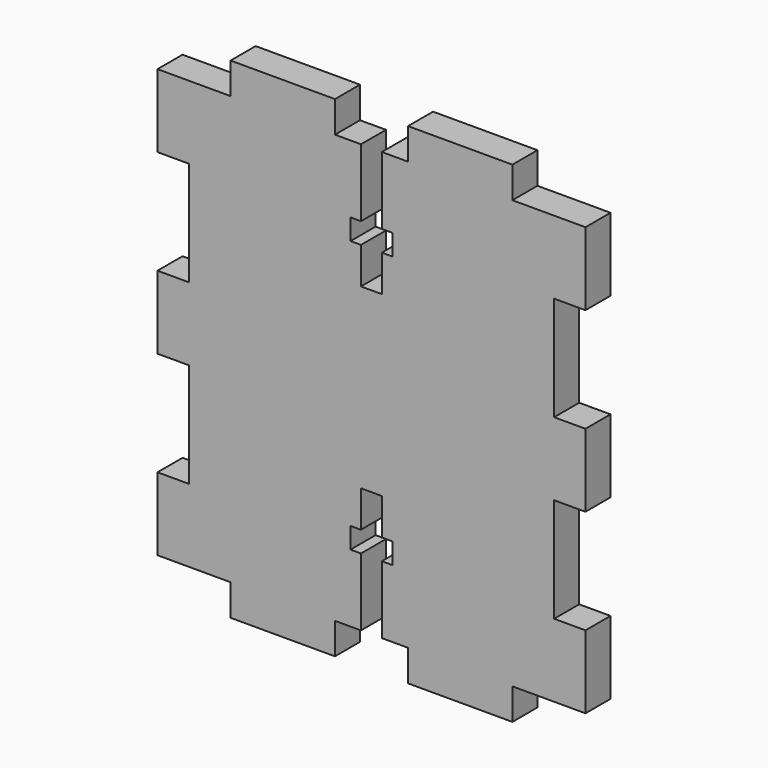
from build123d import *

# Parameters (mm, degrees)
F1_DEPTH = 3


with BuildPart() as f1:
    # F0 (on Front) → F1 (new body)
    with BuildSketch(Plane.XZ):
        Polygon((7.549586, 7), (7.549586, 0), (14.549586, 0), (14.549586, -3), (24.549586, -3), (24.549586, 0), (27.040785, 0), (27.040785, 6.488947), (26.040785, 6.488947), (26.040785, 8.488947), (27.040785, 8.488947), (27.040785, 11.988947), (29.040785, 11.988947), (29.040785, 8.488947), (30.040785, 8.488947), (30.040785, 6.488947), (29.040785, 6.488947), (29.040785, 0), (31.549586, 0), (31.549586, -3), (41.549586, -3), (41.549586, 0), (48.549586, 0), (48.549586, 7), (45.549586, 7), (45.549586, 17), (48.549586, 17), (48.549586, 24), (45.549586, 24), (45.549586, 34), (48.549586, 34), (48.549586, 41), (41.549586, 41), (41.549586, 44), (31.549586, 44), (31.549586, 41), (29.040785, 41), (29.040785, 34.511053), (30.040785, 34.511053), (30.040785, 32.511053), (29.040785, 32.511053), (29.040785, 29.011053), (27.040785, 29.011053), (27.040785, 32.511053), (26.040785, 32.511053), (26.040785, 34.511053), (27.040785, 34.511053), (27.040785, 41), (24.549586, 41), (24.549586, 44), (14.549586, 44), (14.549586, 41), (7.549586, 41), (7.549586, 34), (10.549586, 34), (10.549586, 24), (7.549586, 24), (7.549586, 17), (10.549586, 17), (10.549586, 7), align=None)
    extrude(amount=F1_DEPTH)


solid = f1.part
